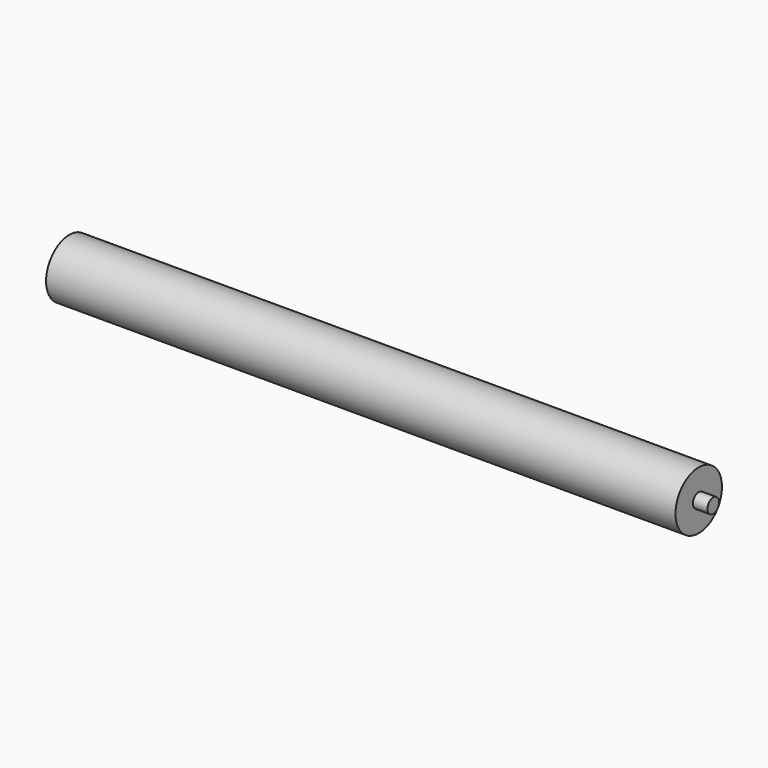
from build123d import *

# Parameters (mm, degrees)
F0_R     = 9.525
F1_DEPTH = 19.05
F2_R     = 38.1
F3_DEPTH = 825.5
F4_R     = 9.525
F5_DEPTH = 19.05


with BuildPart() as f1:
    # F0 (on Right) → F1 (new body)
    with BuildSketch(Plane.YZ):
        Circle(F0_R)
    extrude(amount=-F1_DEPTH)

    # F2 (on face) → F3 (join)
    with BuildSketch(Plane(origin=(-19.05, 0, 0), x_dir=(0, -1, 0), z_dir=(-1, 0, 0))):
        Circle(F2_R)
    extrude(amount=F3_DEPTH)

    # F4 (on face) → F5 (join)
    with BuildSketch(Plane(origin=(-844.55, 0, 0), x_dir=(0, -1, 0), z_dir=(-1, 0, 0))):
        Circle(F4_R)
    extrude(amount=F5_DEPTH)


solid = f1.part
